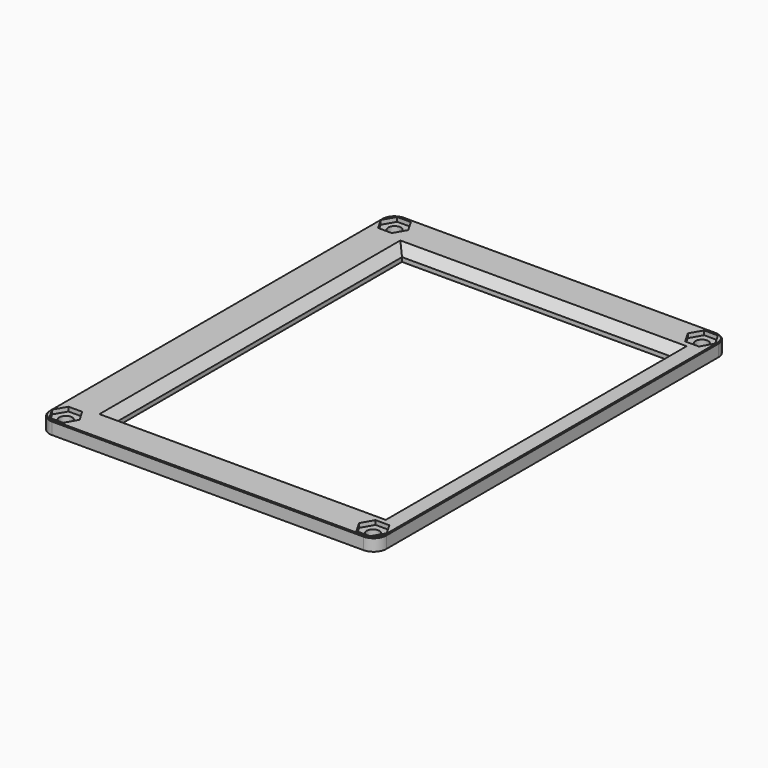
from build123d import *

# Parameters (mm, degrees)
SKETCH005_W          = 79.5
SKETCH005_H          = 104
SKETCH005_W_2        = 63.6
SKETCH005_H_2        = 84.8
PAD005_DEPTH         = 3
POCKET004_DEPTH      = 2
POCKET005_DEPTH      = 2
POCKET006_DEPTH      = 2
POCKET007_DEPTH      = 2
SKETCH009_R          = 1.5
POCKET008_DEPTH      = 0.001
POCKET008_DEPTH_BACK = 3.001
FILLET001_R          = 3
CHAMFER_SIZE         = 2
CHAMFER009_SIZE      = 0.2


with BuildPart() as part:
    # Sketch005 → Pad005 (new body)
    with BuildSketch(Plane.XY):
        with Locations((-2.25, 6.5)):
            Rectangle(SKETCH005_W, SKETCH005_H)
        with Locations((-0.043942, 6.41066)):
            Rectangle(SKETCH005_W_2, SKETCH005_H_2, mode=Mode.SUBTRACT)
    extrude(amount=PAD005_DEPTH)

    # Sketch003 → Pocket004 (cut)
    with BuildSketch(Plane.XY.offset(2)):
        Polygon((-35.284015, 54.943331), (-36.909015, 57.757914), (-40.159015, 57.757914), (-41.784015, 54.943331), (-40.159015, 52.128748), (-36.909015, 52.128748), align=None)
    extrude(amount=POCKET004_DEPTH, mode=Mode.SUBTRACT)

    # Sketch007 → Pocket005 (cut)
    with BuildSketch(Plane.XY.offset(2)):
        Polygon((30.715985, -42.056669), (32.340985, -44.871252), (35.590985, -44.871252), (37.215985, -42.056669), (35.590985, -39.242086), (32.340985, -39.242086), align=None)
    extrude(amount=POCKET005_DEPTH, mode=Mode.SUBTRACT)

    # Sketch008 → Pocket006 (cut)
    with BuildSketch(Plane.XY.offset(2)):
        Polygon((32.340985, 52.128748), (35.590985, 52.128748), (37.215985, 54.943331), (35.590985, 57.757914), (32.340985, 57.757914), (30.715985, 54.943331), align=None)
    extrude(amount=POCKET006_DEPTH, mode=Mode.SUBTRACT)

    # Sketch006 → Pocket007 (cut)
    with BuildSketch(Plane.XY.offset(2)):
        Polygon((-35.284015, -42.056669), (-36.909015, -39.242086), (-40.159015, -39.242086), (-41.784015, -42.056669), (-40.159015, -44.871252), (-36.909015, -44.871252), align=None)
    extrude(amount=POCKET007_DEPTH, mode=Mode.SUBTRACT)

    # Sketch009 → Pocket008 (cut, two sides)
    with BuildSketch(Plane.XY) as pocket008_sk:
        with Locations((-38.515098, -42.092489)):
            Circle(SKETCH009_R)
        with Locations((34.02781, -42.092489)):
            Circle(SKETCH009_R)
        with Locations((34.02781, 54.9676)):
            Circle(SKETCH009_R)
        with Locations((-38.515098, 54.9676)):
            Circle(SKETCH009_R)
    extrude(amount=-POCKET008_DEPTH, mode=Mode.SUBTRACT)
    extrude(pocket008_sk.sketch, amount=POCKET008_DEPTH_BACK, mode=Mode.SUBTRACT)

    # Fillet001
    fillet001_edges = [part.edges().sort_by_distance(p)[0] for p in [
        (-42, 58.5, 1.5),
        (-42, -45.5, 1.5),
        (37.5, -45.5, 1.5),
        (37.5, 58.5, 1.5),
    ]]
    fillet(fillet001_edges, radius=FILLET001_R)

    # Chamfer
    chamfer_edges = [part.edges().sort_by_distance(p)[0] for p in [
        (-0.043942, -35.98934, 3),
        (31.756058, 6.41066, 3),
        (-31.843942, 6.41066, 3),
        (-0.043942, 48.81066, 3),
    ]]
    chamfer(chamfer_edges, length=CHAMFER_SIZE)

    # Chamfer009
    chamfer009_edges = [part.edges().sort_by_distance(p)[0] for p in [
        (-2.25, -45.5, 3),
        (-41.12132, -44.62132, 3),
        (-42, 6.5, 3),
        (36.62132, -44.62132, 3),
        (37.5, 6.5, 3),
        (36.62132, 57.62132, 3),
        (-2.25, 58.5, 3),
        (-41.12132, 57.62132, 3),
    ]]
    chamfer(chamfer009_edges, length=CHAMFER009_SIZE)


solid = part.part
